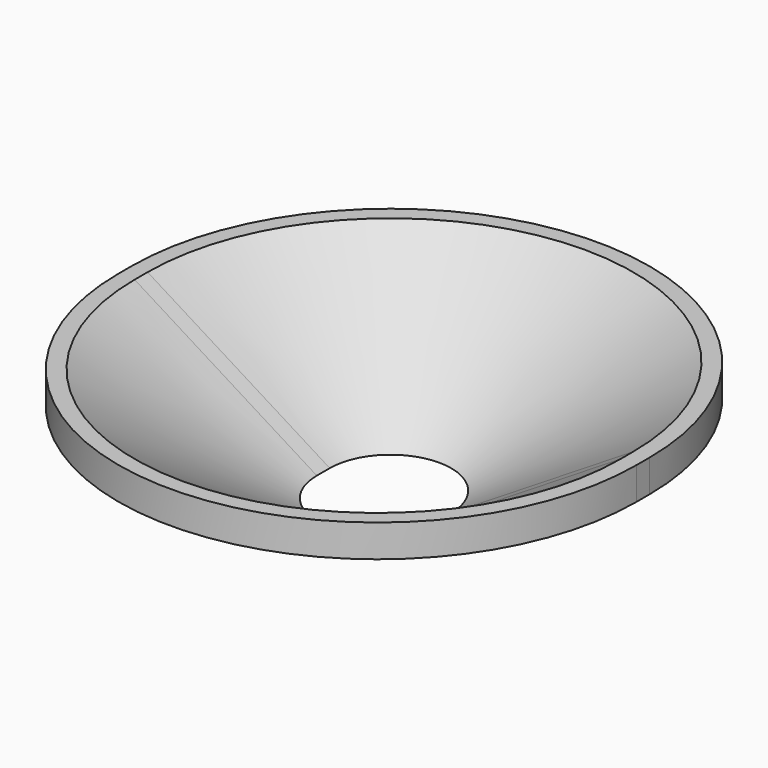
from build123d import *


with BuildPart() as f2:
    # F2: sweep along a path in F0
    with BuildLine(Plane.XY) as f2_path:
        ThreePointArc((4.75, 0.5), (0, 5.25), (-4.75, 0.5))
        Line((-4.75, 0.5), (-4.75, -0.5))
        ThreePointArc((-4.75, -0.5), (0, -5.25), (4.75, -0.5))
        Line((4.75, -0.5), (4.75, 0.5))
    # F1 (on Front) → F2 (sweep)
    with BuildSketch(Plane.XZ):
        Polygon((3.75, 0), (4.75, 0), (15, 5.57735), (16, 5), (16, 7), (15, 7), align=None)
    sweep(path=f2_path.line)


solid = f2.part
